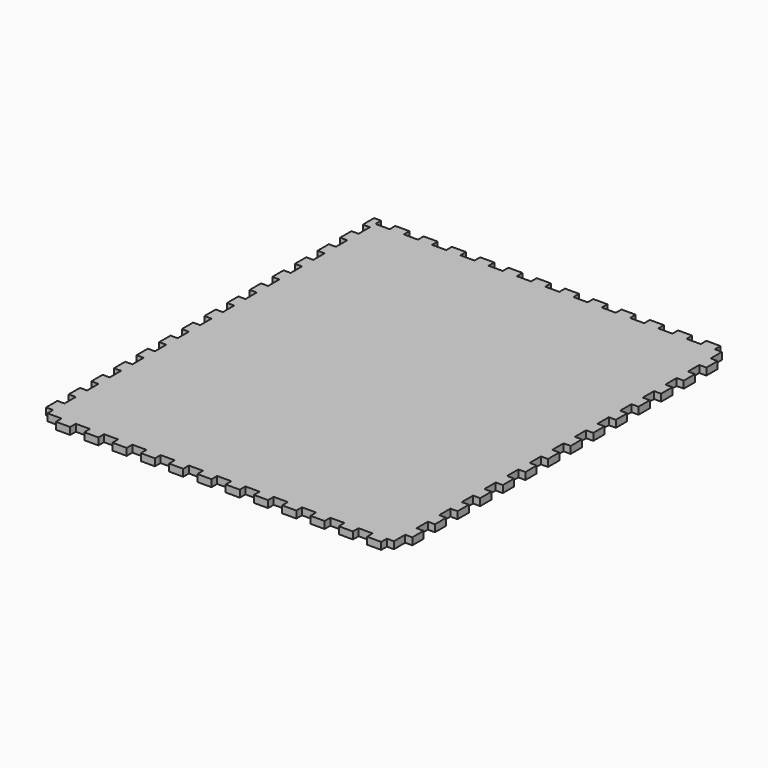
from build123d import *

# Parameters (mm, degrees)
SKETCH008_W            = 250
SKETCH008_H            = 300
PAD006_DEPTH           = 5
SKETCH034_W            = 10
SKETCH034_H            = 5
PAD026_DEPTH           = 5
LINEARPATTERN014_COUNT = 15
LINEARPATTERN014_PITCH = 20
SKETCH127_W            = 10
SKETCH127_H            = 5
POCKET037_DEPTH        = 5
LINEARPATTERN079_COUNT = 13
LINEARPATTERN079_PITCH = 20
SKETCH128_W            = 5
SKETCH128_H            = 10
POCKET038_DEPTH        = 5
LINEARPATTERN080_COUNT = 15
LINEARPATTERN080_PITCH = 20


with BuildPart() as part:
    # Sketch008 → Pad006 (new body)
    with BuildSketch(Plane.XY):
        Rectangle(SKETCH008_W, SKETCH008_H)
    extrude(amount=PAD006_DEPTH)

    # Sketch034 (on DatumPlane) → Pad026 (join)
    with BuildSketch(Plane(origin=(-125, 0, 0), x_dir=(0, -1, 0), z_dir=(-1, 0, 0))):
        with Locations((-145, 2.5)):
            Rectangle(SKETCH034_W, SKETCH034_H)
    pad026 = extrude(amount=PAD026_DEPTH)

    # LinearPattern014: Pad026 ×15
    with Locations(*[(0, -i * LINEARPATTERN014_PITCH, 0) for i in range(1, LINEARPATTERN014_COUNT)]):
        add(pad026)

    # Sketch127 (on DatumPlane) → Pocket037 (cut)
    with BuildSketch(Plane.XY.offset(5)):
        with Locations((-120, 147.5)):
            Rectangle(SKETCH127_W, SKETCH127_H)
        with Locations((-120, -147.5)):
            Rectangle(SKETCH127_W, SKETCH127_H)
    pocket037 = extrude(amount=-POCKET037_DEPTH, mode=Mode.SUBTRACT)

    # LinearPattern079: Pocket037 ×13
    with Locations(*[(i * LINEARPATTERN079_PITCH, 0, 0) for i in range(1, LINEARPATTERN079_COUNT)]):
        add(pocket037, mode=Mode.SUBTRACT)

    # Sketch128 (on DatumPlane) → Pocket038 (cut)
    with BuildSketch(Plane.XY.offset(5)):
        with Locations((122.5, 140)):
            Rectangle(SKETCH128_W, SKETCH128_H)
    pocket038 = extrude(amount=-POCKET038_DEPTH, mode=Mode.SUBTRACT)

    # LinearPattern080: Pocket038 ×15
    with Locations(*[(0, -i * LINEARPATTERN080_PITCH, 0) for i in range(1, LINEARPATTERN080_COUNT)]):
        add(pocket038, mode=Mode.SUBTRACT)


with BuildPart() as part_1:
    # Body006 placement: moved
    add(part.part.moved(Location((-125, 0, 200))))


solid = part_1.part
